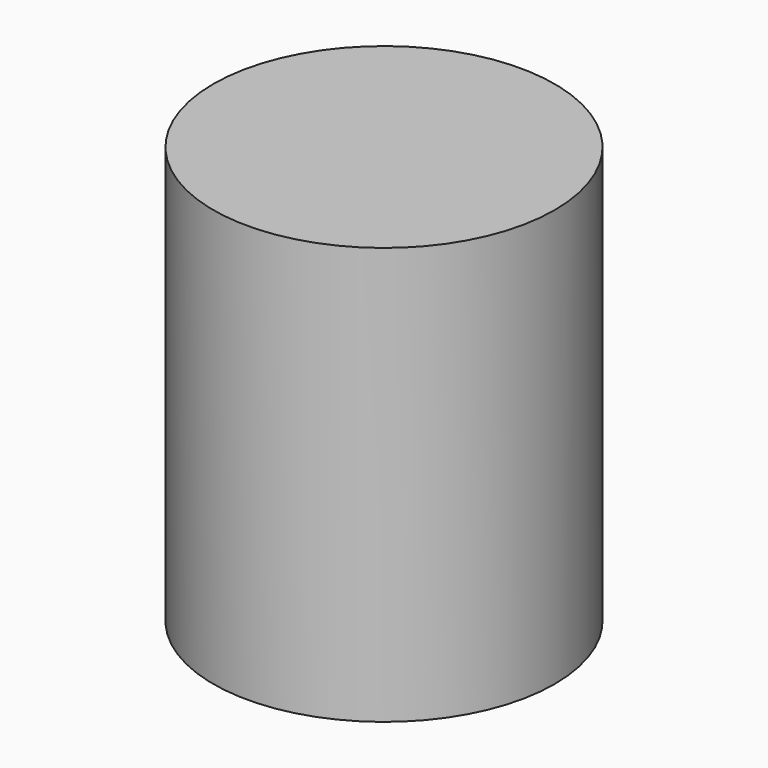
from build123d import *

# Parameters (mm, degrees)
CYLINDER_R     = 2.25
CYLINDER_DEPTH = 5.5


with BuildPart() as part:
    # Cylinder → Cylinder (new body)
    with BuildSketch(Plane.XY):
        Circle(CYLINDER_R)
    extrude(amount=CYLINDER_DEPTH)


solid = part.part
